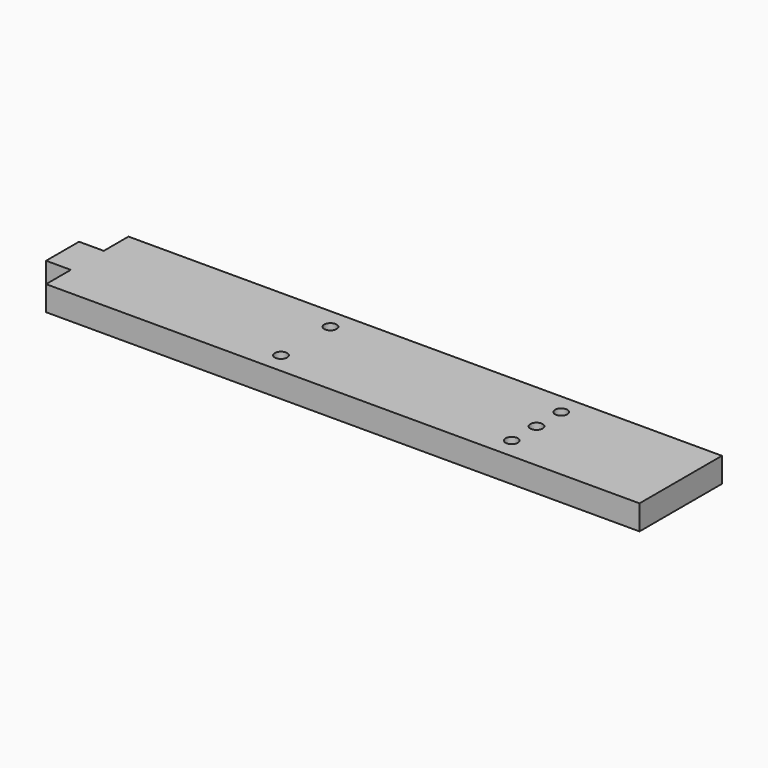
from build123d import *

# Parameters (mm, degrees)
F0_W     = 300
F0_H     = 50
F1_DEPTH = 12
F2_W     = 12
F2_H     = 15
F3_DEPTH = 12.5
F4_R     = 3
F5_DEPTH = 8
F6_R     = 3
F7_DEPTH = 12.001


with BuildPart() as f1:
    # F0 (on Top) → F1 (new body)
    with BuildSketch(Plane.XY):
        with Locations((-1.821462065, -2.0033000623)):
            Rectangle(F0_W, F0_H)
    extrude(amount=F1_DEPTH)

    # F2 (on face) → F3 (cut, symmetric)
    with BuildSketch(Plane.XY.offset(12)):
        with Locations((-145.821462065, 15.4966999377)):
            Rectangle(F2_W, F2_H)
        with Locations((-145.821462065, -19.5033000623)):
            Rectangle(F2_W, F2_H)
    extrude(amount=F3_DEPTH, both=True, mode=Mode.SUBTRACT)

    # F4 (on face) → F5 (cut)
    with BuildSketch(Plane.XY.offset(12)):
        with Locations((-33.821462065, -17.0033000623)):
            Circle(F4_R)
        with Locations((78.178537935, 12.9966999377)):
            Circle(F4_R)
        with Locations((78.178537935, -17.0033000623)):
            Circle(F4_R)
        with Locations((-33.821462065, 12.9966999377)):
            Circle(F4_R)
    extrude(amount=-F5_DEPTH, mode=Mode.SUBTRACT)

    # F6 (on face) → F7 (cut, through all)
    with BuildSketch(Plane.XY.offset(12)):
        with Locations((78.178537935, -2.0033000623)):
            Circle(F6_R)
    extrude(amount=-F7_DEPTH, mode=Mode.SUBTRACT)


solid = f1.part
